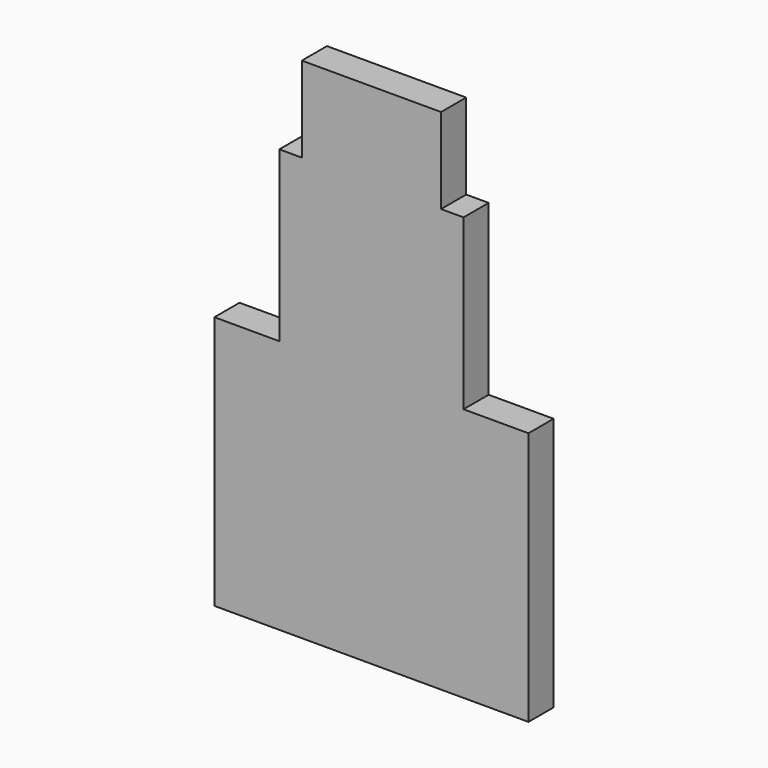
from build123d import *

# Parameters (mm, degrees)
F0_W     = 14.89632
F0_H     = 6.825086
F0_W_2   = 11.260638
F0_H_2   = 6.909038
F1_DEPTH = 2.54


with BuildPart() as f1:
    # F0 (on Front) → F1 (new body)
    with BuildSketch(Plane.XZ):
        Polygon((-12.7, 0), (0, 0), (12.7, 0), (12.7, 20.552527), (7.44816, 20.552527), (-7.44816, 20.552527), (-12.7, 20.552527), align=None)
        with Locations((0, 23.96507)):
            Rectangle(F0_W, F0_H)
        Polygon((-7.44816, 34.213562), (-7.44816, 27.377613), (7.44816, 27.377613), (7.44816, 34.213562), (5.630319, 34.213562), (-5.630319, 34.213562), align=None)
        with Locations((0, 37.668081)):
            Rectangle(F0_W_2, F0_H_2)
    extrude(amount=-F1_DEPTH)


solid = f1.part
